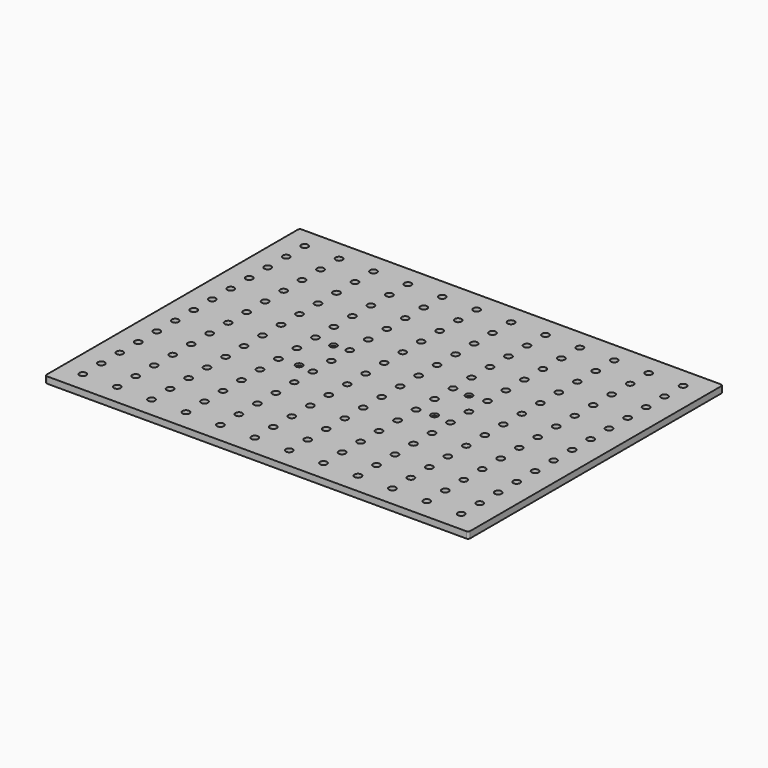
from build123d import *

# Parameters (mm, degrees)
F0_W     = 197
F0_H     = 148
F0_R     = 1.6
F1_DEPTH = 3
F2_R     = 1.6
F3_DEPTH = 25
F4_R     = 1
F5_SIZE  = 2


with BuildPart() as f1:
    # F0 (on Top) → F1 (new body)
    with BuildSketch(Plane.XY):
        Rectangle(F0_W, F0_H)
        with Locations((-31.5, -10)):
            Circle(F0_R, mode=Mode.SUBTRACT)
        with Locations((31.5, -10)):
            Circle(F0_R, mode=Mode.SUBTRACT)
        with Locations((-31.5, 10)):
            Circle(F0_R, mode=Mode.SUBTRACT)
        with Locations((31.5, 10)):
            Circle(F0_R, mode=Mode.SUBTRACT)
    extrude(amount=F1_DEPTH)

    # F2 (on face) → F3 (cut)
    with BuildSketch(Plane.XY.offset(3)):
        with Locations((-88.5, 0)):
            Circle(F2_R)
        with Locations((-88.5, 10.75)):
            Circle(F2_R)
        with Locations((-88.5, 21.5)):
            Circle(F2_R)
        with Locations((-88.5, 32.25)):
            Circle(F2_R)
        with Locations((-88.5, 43)):
            Circle(F2_R)
        with Locations((-88.5, 53.75)):
            Circle(F2_R)
        with Locations((-88.5, 64.5)):
            Circle(F2_R)
        with Locations((-88.5, -10.75)):
            Circle(F2_R)
        with Locations((-88.5, -21.5)):
            Circle(F2_R)
        with Locations((-88.5, -32.25)):
            Circle(F2_R)
        with Locations((-88.5, -43)):
            Circle(F2_R)
        with Locations((-88.5, -53.75)):
            Circle(F2_R)
        with Locations((-88.5, -64.5)):
            Circle(F2_R)
        with Locations((-72.5, 0)):
            Circle(F2_R)
        with Locations((-72.5, -10.75)):
            Circle(F2_R)
        with Locations((-72.5, 10.75)):
            Circle(F2_R)
        with Locations((-72.5, -32.25)):
            Circle(F2_R)
        with Locations((-72.5, -53.75)):
            Circle(F2_R)
        with Locations((-72.5, -64.5)):
            Circle(F2_R)
        with Locations((-72.5, -43)):
            Circle(F2_R)
        with Locations((-72.5, -21.5)):
            Circle(F2_R)
        with Locations((-72.5, 64.5)):
            Circle(F2_R)
        with Locations((-72.5, 43)):
            Circle(F2_R)
        with Locations((-72.5, 21.5)):
            Circle(F2_R)
        with Locations((-72.5, 32.25)):
            Circle(F2_R)
        with Locations((-72.5, 53.75)):
            Circle(F2_R)
        with Locations((-56.5, 0)):
            Circle(F2_R)
        with Locations((-56.5, -10.75)):
            Circle(F2_R)
        with Locations((-56.5, 10.75)):
            Circle(F2_R)
        with Locations((-56.5, -32.25)):
            Circle(F2_R)
        with Locations((-56.5, -53.75)):
            Circle(F2_R)
        with Locations((-56.5, -64.5)):
            Circle(F2_R)
        with Locations((-56.5, -43)):
            Circle(F2_R)
        with Locations((-56.5, -21.5)):
            Circle(F2_R)
        with Locations((-56.5, 64.5)):
            Circle(F2_R)
        with Locations((-56.5, 43)):
            Circle(F2_R)
        with Locations((-56.5, 21.5)):
            Circle(F2_R)
        with Locations((-56.5, 32.25)):
            Circle(F2_R)
        with Locations((-56.5, 53.75)):
            Circle(F2_R)
        with Locations((-40.5, 0)):
            Circle(F2_R)
        with Locations((-40.5, -10.75)):
            Circle(F2_R)
        with Locations((-40.5, 10.75)):
            Circle(F2_R)
        with Locations((-40.5, -32.25)):
            Circle(F2_R)
        with Locations((-40.5, -53.75)):
            Circle(F2_R)
        with Locations((-40.5, -64.5)):
            Circle(F2_R)
        with Locations((-40.5, -43)):
            Circle(F2_R)
        with Locations((-40.5, -21.5)):
            Circle(F2_R)
        with Locations((-40.5, 64.5)):
            Circle(F2_R)
        with Locations((-40.5, 43)):
            Circle(F2_R)
        with Locations((-40.5, 21.5)):
            Circle(F2_R)
        with Locations((-40.5, 32.25)):
            Circle(F2_R)
        with Locations((-40.5, 53.75)):
            Circle(F2_R)
        with Locations((-24.5, 0)):
            Circle(F2_R)
        with Locations((-24.5, -10.75)):
            Circle(F2_R)
        with Locations((-24.5, 10.75)):
            Circle(F2_R)
        with Locations((-24.5, -32.25)):
            Circle(F2_R)
        with Locations((-24.5, -53.75)):
            Circle(F2_R)
        with Locations((-24.5, -64.5)):
            Circle(F2_R)
        with Locations((-24.5, -43)):
            Circle(F2_R)
        with Locations((-24.5, -21.5)):
            Circle(F2_R)
        with Locations((-24.5, 64.5)):
            Circle(F2_R)
        with Locations((-24.5, 43)):
            Circle(F2_R)
        with Locations((-24.5, 21.5)):
            Circle(F2_R)
        with Locations((-24.5, 32.25)):
            Circle(F2_R)
        with Locations((-24.5, 53.75)):
            Circle(F2_R)
        with Locations((-8.5, 0)):
            Circle(F2_R)
        with Locations((-8.5, -10.75)):
            Circle(F2_R)
        with Locations((-8.5, 10.75)):
            Circle(F2_R)
        with Locations((-8.5, -32.25)):
            Circle(F2_R)
        with Locations((-8.5, -53.75)):
            Circle(F2_R)
        with Locations((-8.5, -64.5)):
            Circle(F2_R)
        with Locations((-8.5, -43)):
            Circle(F2_R)
        with Locations((-8.5, -21.5)):
            Circle(F2_R)
        with Locations((-8.5, 64.5)):
            Circle(F2_R)
        with Locations((-8.5, 43)):
            Circle(F2_R)
        with Locations((-8.5, 21.5)):
            Circle(F2_R)
        with Locations((-8.5, 32.25)):
            Circle(F2_R)
        with Locations((-8.5, 53.75)):
            Circle(F2_R)
        with Locations((7.5, 0)):
            Circle(F2_R)
        with Locations((7.5, -10.75)):
            Circle(F2_R)
        with Locations((7.5, 10.75)):
            Circle(F2_R)
        with Locations((7.5, -32.25)):
            Circle(F2_R)
        with Locations((7.5, -53.75)):
            Circle(F2_R)
        with Locations((7.5, -64.5)):
            Circle(F2_R)
        with Locations((7.5, -43)):
            Circle(F2_R)
        with Locations((7.5, -21.5)):
            Circle(F2_R)
        with Locations((7.5, 64.5)):
            Circle(F2_R)
        with Locations((7.5, 43)):
            Circle(F2_R)
        with Locations((7.5, 21.5)):
            Circle(F2_R)
        with Locations((7.5, 32.25)):
            Circle(F2_R)
        with Locations((7.5, 53.75)):
            Circle(F2_R)
        with Locations((23.5, 0)):
            Circle(F2_R)
        with Locations((23.5, -10.75)):
            Circle(F2_R)
        with Locations((23.5, 10.75)):
            Circle(F2_R)
        with Locations((23.5, -32.25)):
            Circle(F2_R)
        with Locations((23.5, -53.75)):
            Circle(F2_R)
        with Locations((23.5, -64.5)):
            Circle(F2_R)
        with Locations((23.5, -43)):
            Circle(F2_R)
        with Locations((23.5, -21.5)):
            Circle(F2_R)
        with Locations((23.5, 64.5)):
            Circle(F2_R)
        with Locations((23.5, 43)):
            Circle(F2_R)
        with Locations((23.5, 21.5)):
            Circle(F2_R)
        with Locations((23.5, 32.25)):
            Circle(F2_R)
        with Locations((23.5, 53.75)):
            Circle(F2_R)
        with Locations((39.5, 0)):
            Circle(F2_R)
        with Locations((39.5, -10.75)):
            Circle(F2_R)
        with Locations((39.5, 10.75)):
            Circle(F2_R)
        with Locations((39.5, -32.25)):
            Circle(F2_R)
        with Locations((39.5, -53.75)):
            Circle(F2_R)
        with Locations((39.5, -64.5)):
            Circle(F2_R)
        with Locations((39.5, -43)):
            Circle(F2_R)
        with Locations((39.5, -21.5)):
            Circle(F2_R)
        with Locations((39.5, 64.5)):
            Circle(F2_R)
        with Locations((39.5, 43)):
            Circle(F2_R)
        with Locations((39.5, 21.5)):
            Circle(F2_R)
        with Locations((39.5, 32.25)):
            Circle(F2_R)
        with Locations((39.5, 53.75)):
            Circle(F2_R)
        with Locations((55.5, 0)):
            Circle(F2_R)
        with Locations((55.5, -10.75)):
            Circle(F2_R)
        with Locations((55.5, 10.75)):
            Circle(F2_R)
        with Locations((55.5, -32.25)):
            Circle(F2_R)
        with Locations((55.5, -53.75)):
            Circle(F2_R)
        with Locations((55.5, -64.5)):
            Circle(F2_R)
        with Locations((55.5, -43)):
            Circle(F2_R)
        with Locations((55.5, -21.5)):
            Circle(F2_R)
        with Locations((55.5, 64.5)):
            Circle(F2_R)
        with Locations((55.5, 43)):
            Circle(F2_R)
        with Locations((55.5, 21.5)):
            Circle(F2_R)
        with Locations((55.5, 32.25)):
            Circle(F2_R)
        with Locations((55.5, 53.75)):
            Circle(F2_R)
        with Locations((71.5, 0)):
            Circle(F2_R)
        with Locations((71.5, -10.75)):
            Circle(F2_R)
        with Locations((71.5, 10.75)):
            Circle(F2_R)
        with Locations((71.5, -32.25)):
            Circle(F2_R)
        with Locations((71.5, -53.75)):
            Circle(F2_R)
        with Locations((71.5, -64.5)):
            Circle(F2_R)
        with Locations((71.5, -43)):
            Circle(F2_R)
        with Locations((71.5, -21.5)):
            Circle(F2_R)
        with Locations((71.5, 64.5)):
            Circle(F2_R)
        with Locations((71.5, 43)):
            Circle(F2_R)
        with Locations((71.5, 21.5)):
            Circle(F2_R)
        with Locations((71.5, 32.25)):
            Circle(F2_R)
        with Locations((71.5, 53.75)):
            Circle(F2_R)
        with Locations((87.5, 0)):
            Circle(F2_R)
        with Locations((87.5, -10.75)):
            Circle(F2_R)
        with Locations((87.5, 10.75)):
            Circle(F2_R)
        with Locations((87.5, -32.25)):
            Circle(F2_R)
        with Locations((87.5, -53.75)):
            Circle(F2_R)
        with Locations((87.5, -64.5)):
            Circle(F2_R)
        with Locations((87.5, -43)):
            Circle(F2_R)
        with Locations((87.5, -21.5)):
            Circle(F2_R)
        with Locations((87.5, 64.5)):
            Circle(F2_R)
        with Locations((87.5, 43)):
            Circle(F2_R)
        with Locations((87.5, 21.5)):
            Circle(F2_R)
        with Locations((87.5, 32.25)):
            Circle(F2_R)
        with Locations((87.5, 53.75)):
            Circle(F2_R)
    extrude(amount=-F3_DEPTH, mode=Mode.SUBTRACT)

    # F4
    f4_edges = [f1.edges().sort_by_distance(p)[0] for p in [
        (-98.5, -74, 1.5),
        (98.5, -74, 1.5),
        (-98.5, 74, 1.5),
        (98.5, 74, 1.5),
    ]]
    fillet(f4_edges, radius=F4_R)

    # F5
    f5_edges = [f1.edges().sort_by_distance(p)[0] for p in [
        (-33.1, -10, 0),
        (-33.1, 10, 0),
        (29.9, -10, 0),
        (29.9, 10, 0),
    ]]
    chamfer(f5_edges, length=F5_SIZE)


solid = f1.part
